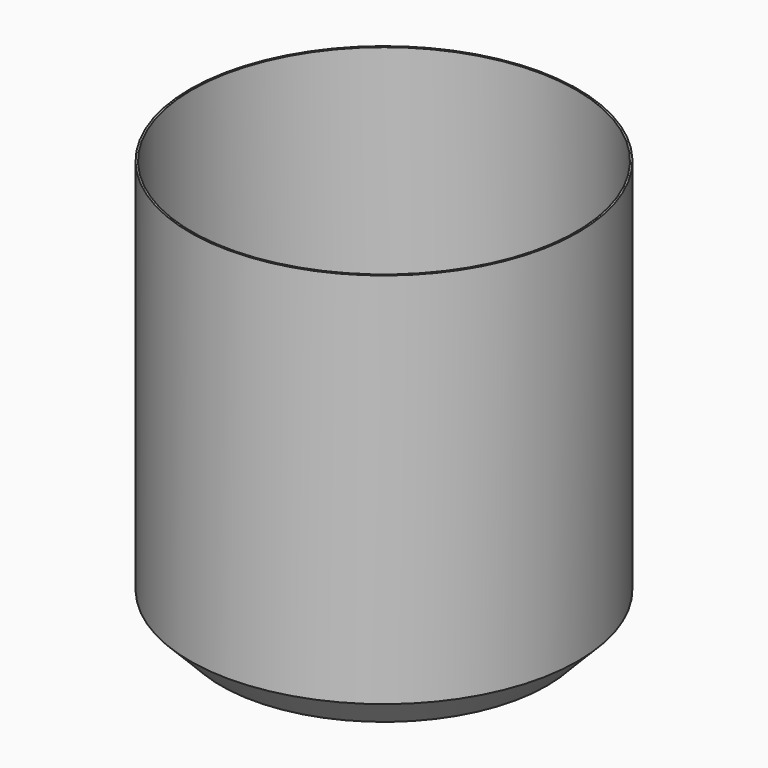
from build123d import *

# Parameters (mm, degrees)
F0_W = 0.762
F0_H = 151.86152


with BuildPart() as f2:
    # F0 (on Front) → F2 (revolve)
    with BuildSketch(Plane.XZ):
        with Locations((-77.71384, 88.2142)):
            Rectangle(F0_W, F0_H)
        Polygon((-65.0494, 0), (-77.33284, 12.28344), (-78.09484, 12.28344), (-65.588215, -0.538815), align=None)
    revolve(axis=Axis((0, 0, 45.767767), (0, 0, 1)))


solid = f2.part
